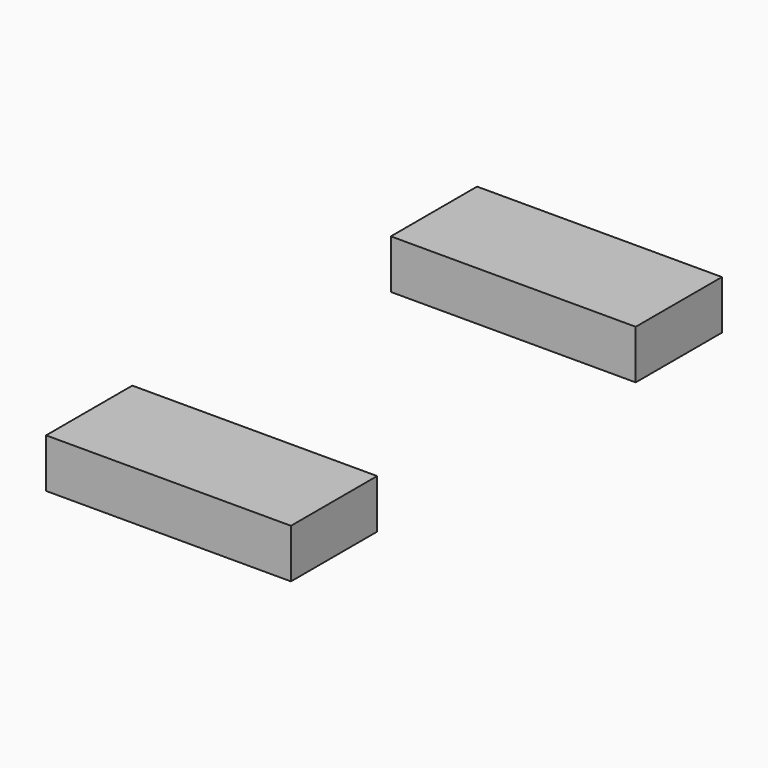
from build123d import *

# Parameters (mm, degrees)
BOX009005_W     = 25
BOX009005_H     = 11
BOX009005_DEPTH = 5
BOX009004_W     = 25
BOX009004_H     = 11
BOX009004_DEPTH = 5


with BuildPart() as long_magnet002:
    # Box009005 → Box009005 (new body)
    with BuildSketch(Plane(origin=(-12.5, 16.5, 10), x_dir=(1, 0, 0), z_dir=(0, 0, 1))):
        with Locations((12.5, 5.5)):
            Rectangle(BOX009005_W, BOX009005_H)
    extrude(amount=BOX009005_DEPTH)


with BuildPart() as part_mirroring:
    # Part__Mirroring: instance of Long Magnet002
    add(long_magnet002.part.mirror(Plane(origin=(0, 0, 0), x_dir=(1, 0, 0), z_dir=(0, 1, 0))))


with BuildPart() as stationary_keepers:
    # Box009004 → Box009004 (new body)
    with BuildSketch(Plane(origin=(-12.5, 16.5, 10), x_dir=(1, 0, 0), z_dir=(0, 0, 1))):
        with Locations((12.5, 5.5)):
            Rectangle(BOX009004_W, BOX009004_H)
    extrude(amount=BOX009004_DEPTH)

    # Fusion004: union Part__Mirroring
    add(part_mirroring.part)


solid = stationary_keepers.part
